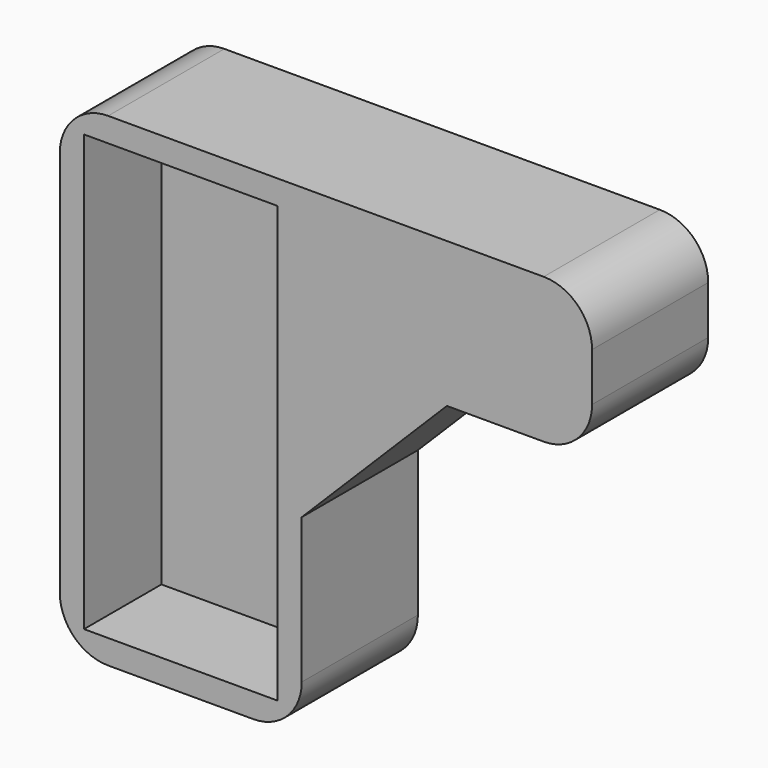
from build123d import *

# Parameters (mm, degrees)
F1_DEPTH = 30
F2_DEPTH = 20


with BuildPart() as f1:
    # F0 (on Front) → F1 (new body)
    with BuildSketch(Plane.XZ):
        with BuildLine():
            Line((0, -30), (0, 0))
            Line((0, 0), (30, 30))
            Line((30, 30), (50, 30))
            ThreePointArc((50, 30), (57.071068, 32.928932), (60, 40))
            Line((60, 40), (60, 50))
            ThreePointArc((60, 50), (57.071068, 57.071068), (50, 60))
            Line((50, 60), (-40, 60))
            ThreePointArc((-40, 60), (-47.071068, 57.071068), (-50, 50))
            Line((-50, 50), (-50, -30))
            ThreePointArc((-50, -30), (-47.071068, -37.071068), (-40, -40))
            Line((-40, -40), (-10, -40))
            ThreePointArc((-10, -40), (-2.928932, -37.071068), (0, -30))
        make_face()
        Polygon((-45, -35), (-45, 15), (-45, 55), (-5, 55), (-5, -35), align=None, mode=Mode.SUBTRACT)
        Polygon((-45, 55), (-45, 15), (-45, -35), (-5, -35), (-5, 55), align=None)
    extrude(amount=-F1_DEPTH)

    # F0 (on Front) → F2 (cut)
    with BuildSketch(Plane.XZ):
        Polygon((-45, 55), (-45, 15), (-45, -35), (-5, -35), (-5, 55), align=None)
    extrude(amount=-F2_DEPTH, mode=Mode.SUBTRACT)


solid = f1.part
